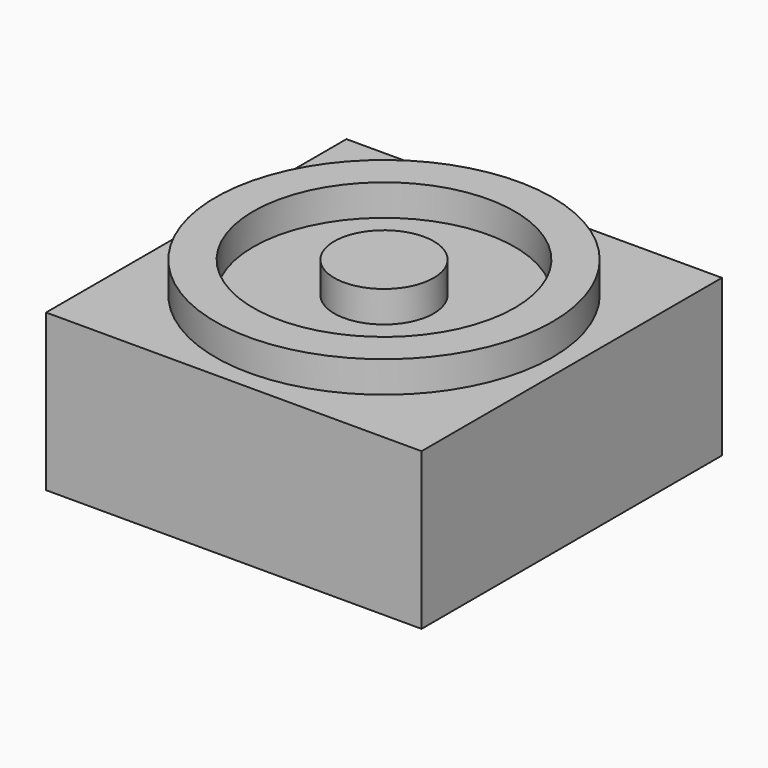
from build123d import *

# Parameters (mm, degrees)
F0_W     = 30
F0_H     = 30
F1_DEPTH = 12.5
F3_R     = 13.460872
F3_R_2   = 10.447171
F4_DEPTH = 2.5
F2_R     = 3.97173
F5_DEPTH = 2.5


with BuildPart() as f1:
    # F0 (on Top) → F1 (new body)
    with BuildSketch(Plane.XY):
        Rectangle(F0_W, F0_H)
    extrude(amount=F1_DEPTH)

    # F3 (on face) → F4 (join)
    with BuildSketch(Plane.XY.offset(12.5)):
        Circle(F3_R)
        Circle(F3_R_2, mode=Mode.SUBTRACT)
    extrude(amount=F4_DEPTH)

    # F2 (on face) → F5 (join)
    with BuildSketch(Plane.XY.offset(12.5)):
        Circle(F2_R)
    extrude(amount=F5_DEPTH)


solid = f1.part
